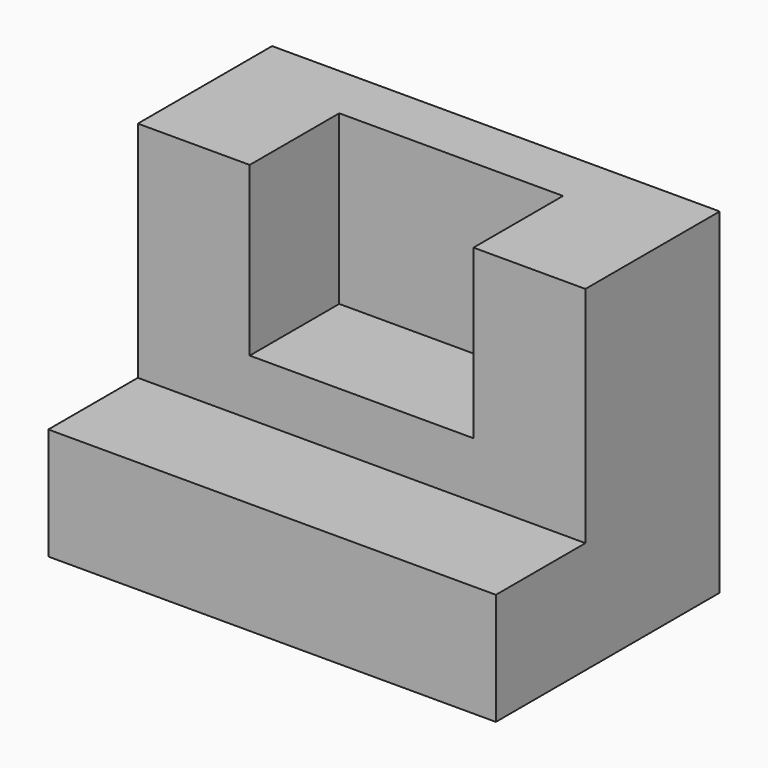
from build123d import *

# Parameters (mm, degrees)
F1_DEPTH = 101.6
F2_W     = 50.8
F2_H     = 38.1
F3_DEPTH = 25.4


with BuildPart() as f1:
    # F0 (on Right) → F1 (new body)
    with BuildSketch(Plane.YZ):
        Polygon((-34.241207, -18.016895), (-34.241207, -43.416895), (29.258793, -43.416895), (29.258793, 32.783105), (-8.841207, 32.783105), (-8.841207, -18.016895), align=None)
    extrude(amount=-F1_DEPTH)

    # F2 (on face) → F3 (cut)
    with BuildSketch(Plane.XZ.offset(8.841207)):
        with Locations((-50.8, 13.733105)):
            Rectangle(F2_W, F2_H)
    extrude(amount=-F3_DEPTH, mode=Mode.SUBTRACT)


solid = f1.part
